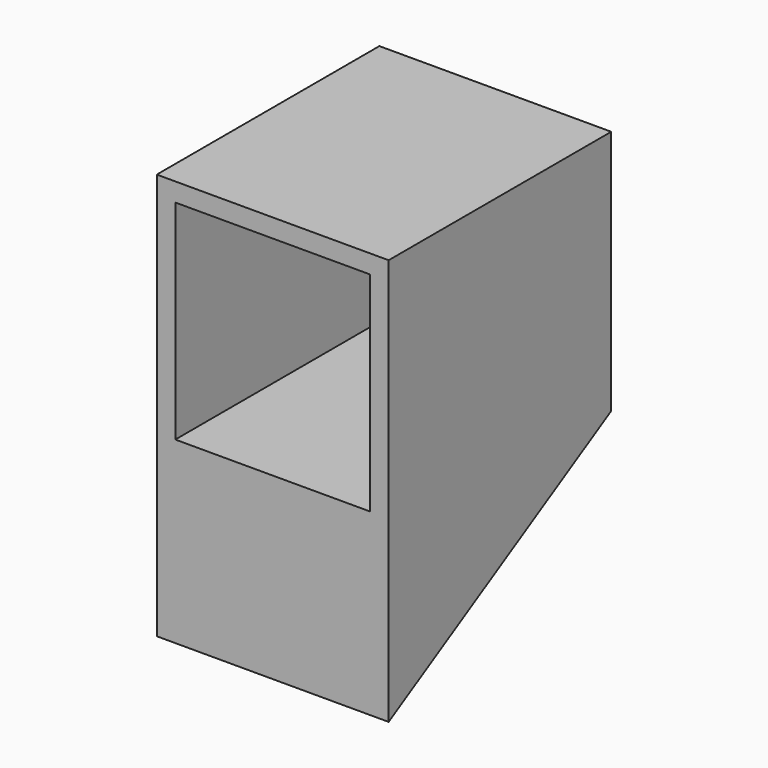
from build123d import *

# Parameters (mm, degrees)
F0_W     = 127
F0_H     = 134.62
F1_DEPTH = 152.4
F2_T     = -10.16
F4_DEPTH = 127


with BuildPart() as f1:
    # F0 (on Front) → F1 (new body)
    with BuildSketch(Plane.XZ):
        with Locations((63.5, 67.31)):
            Rectangle(F0_W, F0_H)
    extrude(amount=F1_DEPTH)

    # F2
    f2_openings = [f1.faces().sort_by_distance(p)[0] for p in [
        (63.5, -152.4, 67.31),
    ]]
    offset(amount=F2_T, openings=f2_openings)

    # F3 (on Right) → F4 (join, through all)
    with BuildSketch(Plane.YZ):
        Polygon((-152.4, -87.988181), (0, 0), (-152.4, 0), align=None)
    extrude(amount=F4_DEPTH)


solid = f1.part
